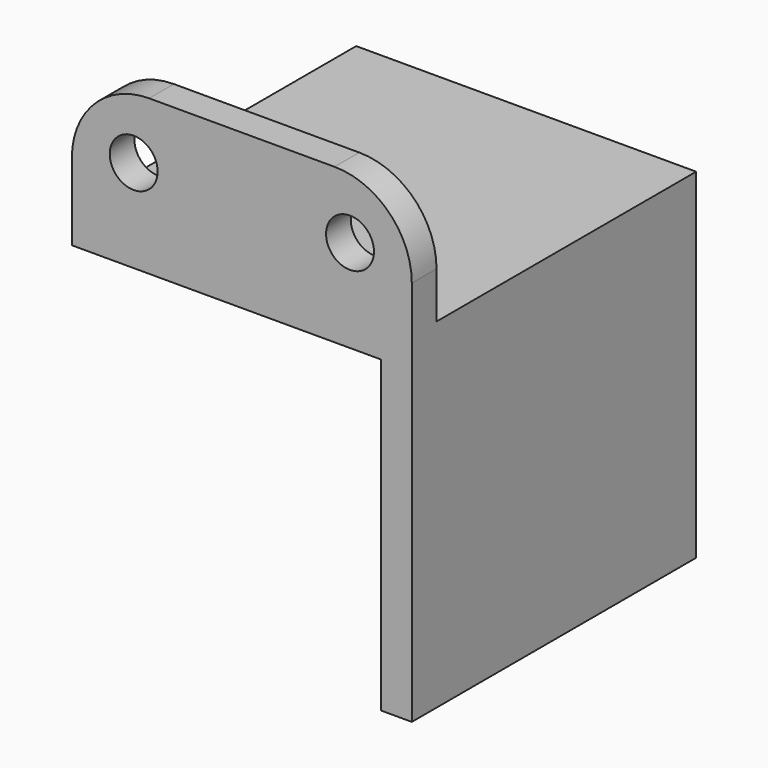
from build123d import *

# Parameters (mm, degrees)
CYLINDER001_R          = 20
CYLINDER001_DEPTH      = 25
CYLINDER001_ROLL_ANGLE = -90
CYLINDER002_R          = 1.55
CYLINDER002_DEPTH      = 10
CYLINDER002_ROLL_ANGLE = -90
CYLINDER_R             = 1.55
CYLINDER_DEPTH         = 10
CYLINDER_ROLL_ANGLE    = -90
BOX003_W               = 10
BOX003_H               = 6
BOX003_DEPTH           = 31
BOX001_W               = 20
BOX001_H               = 21
BOX001_DEPTH           = 20
BOX_W                  = 22
BOX_H                  = 23
BOX_DEPTH              = 22
BOX002_W               = 30
BOX002_H               = 2
BOX002_DEPTH           = 30
FILLET_R               = 5
FILLET001_R            = 5


with BuildPart() as cilindro001:
    # Cylinder001 → Cylinder001 (new body)
    with BuildSketch(Plane.XY):
        Circle(CYLINDER001_R)
    extrude(amount=CYLINDER001_DEPTH)


with BuildPart() as cilindro001_1:
    # Cylinder001 roll: moved
    add(cilindro001.part.rotate(Axis((0, 0, 0), (1, 0, 0)), CYLINDER001_ROLL_ANGLE))


with BuildPart() as cilindro001_2:
    # Cylinder001 placement: moved
    add(cilindro001_1.part)


with BuildPart() as cilindro002:
    # Cylinder002 → Cylinder002 (new body)
    with BuildSketch(Plane.XY):
        Circle(CYLINDER002_R)
    extrude(amount=CYLINDER002_DEPTH)


with BuildPart() as cilindro002_1:
    # Cylinder002 roll: moved
    add(cilindro002.part.rotate(Axis((0, 0, 0), (1, 0, 0)), CYLINDER002_ROLL_ANGLE))


with BuildPart() as cilindro002_2:
    # Cylinder002 placement: moved
    add(cilindro002_1.part.moved(Location((4, -2, 26))))


with BuildPart() as cilindro:
    # Cylinder → Cylinder (new body)
    with BuildSketch(Plane.XY):
        Circle(CYLINDER_R)
    extrude(amount=CYLINDER_DEPTH)


with BuildPart() as cilindro_1:
    # Cylinder roll: moved
    add(cilindro.part.rotate(Axis((0, 0, 0), (1, 0, 0)), CYLINDER_ROLL_ANGLE))


with BuildPart() as cilindro_2:
    # Cylinder placement: moved
    add(cilindro_1.part.moved(Location((18, -2, 26))))


with BuildPart() as cubo003:
    # Box003 → Box003 (new body)
    with BuildSketch(Plane(origin=(22, 0, 0), x_dir=(1, 0, 0), z_dir=(0, 0, 1))):
        with Locations((5, 3)):
            Rectangle(BOX003_W, BOX003_H)
    extrude(amount=BOX003_DEPTH)


with BuildPart() as cubo001:
    # Box001 → Box001 (new body)
    with BuildSketch(Plane.XY):
        with Locations((10, 10.5)):
            Rectangle(BOX001_W, BOX001_H)
    extrude(amount=BOX001_DEPTH)


with BuildPart() as cubo:
    # Box → Box (new body)
    with BuildSketch(Plane.XY):
        with Locations((11, 11.5)):
            Rectangle(BOX_W, BOX_H)
    extrude(amount=BOX_DEPTH)


with BuildPart() as fillet001:
    # Box002 → Box002 (new body)
    with BuildSketch(Plane.XY):
        with Locations((15, 1)):
            Rectangle(BOX002_W, BOX002_H)
    extrude(amount=BOX002_DEPTH)

    # Fusion: union Cubo
    add(cubo.part)

    # Cut: cut Cubo001
    add(cubo001.part, mode=Mode.SUBTRACT)

    # Cut001: cut Cubo003
    add(cubo003.part, mode=Mode.SUBTRACT)

    # Cut002: cut Cilindro
    add(cilindro_2.part, mode=Mode.SUBTRACT)

    # Cut003: cut Cilindro002
    add(cilindro002_2.part, mode=Mode.SUBTRACT)

    # Cut004: cut Cilindro001
    add(cilindro001_2.part, mode=Mode.SUBTRACT)

    # Fillet
    fillet_edges = [fillet001.edges().sort_by_distance(p)[0] for p in [
        (0, 1, 30),
    ]]
    fillet(fillet_edges, radius=FILLET_R)

    # Fillet001
    fillet001_edges = [fillet001.edges().sort_by_distance(p)[0] for p in [
        (22, 1, 30),
    ]]
    fillet(fillet001_edges, radius=FILLET001_R)


solid = fillet001.part
